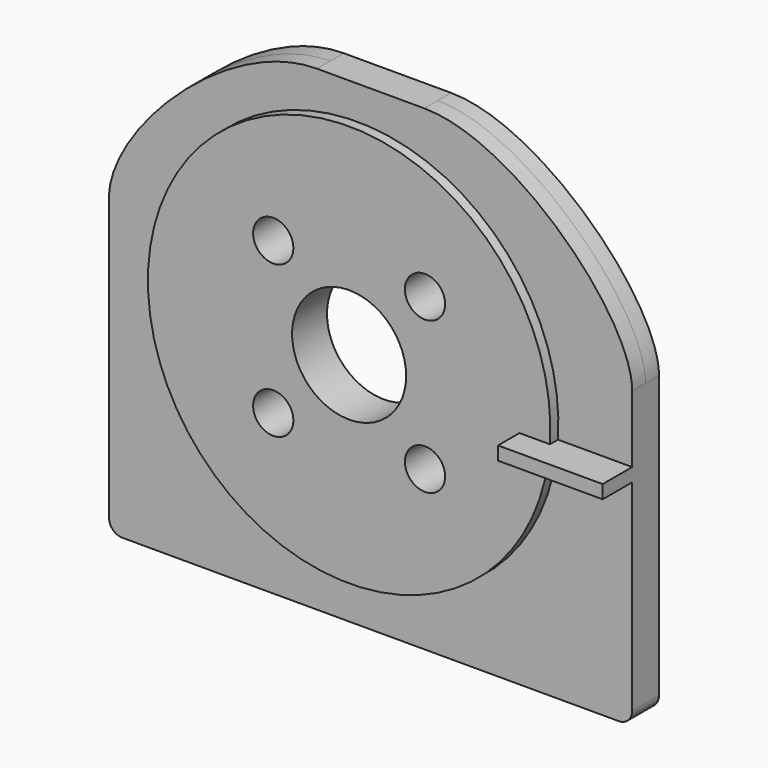
from build123d import *

# Parameters (mm, degrees)
F0_R          = 1.5
F0_R_2        = 4.25
F1_DEPTH      = 1.25
F2_R          = 15
F2_R_2        = 1.5
F2_R_3        = 4.25
F3_DEPTH      = 2
F5_DEPTH      = 2
F5_DEPTH_BACK = 0.75
F6_R          = 1


with BuildPart() as f1:
    # F0 (on Front) → F1 (new body, symmetric)
    with BuildSketch(Plane.XZ):
        with BuildLine():
            Line((4, 17.75), (0, 17.75))
            Line((0, 17.75), (-4, 17.75))
            add(Edge.make_bspline(
                [(-4, 17.75), (-10.6686704129, 17.75), (-19.5, 9.0568709765), (-19.5, 4.25)],
                knots=[0, 0, 0, 0, 20.5548047911, 20.5548047911, 20.5548047911, 20.5548047911], degree=3))
            Line((-19.5, 4.25), (-19.5, -17.75))
            Line((-19.5, -17.75), (19.5, -17.75))
            Line((19.5, -17.75), (19.5, 4.25))
            add(Edge.make_bspline(
                [(4, 17.75), (10.6686704129, 17.75), (19.5, 9.0568709765), (19.5, 4.25)],
                knots=[0, 0, 0, 0, 20.5548047911, 20.5548047911, 20.5548047911, 20.5548047911], degree=3))
        make_face()
        with Locations((-6.6568542495, -5.4068542495)):
            Circle(F0_R, mode=Mode.SUBTRACT)
        with Locations((4.6568542495, -5.4068542495)):
            Circle(F0_R, mode=Mode.SUBTRACT)
        with Locations((-1, 0.25)):
            Circle(F0_R_2, mode=Mode.SUBTRACT)
        with Locations((-6.6568542495, 5.9068542495)):
            Circle(F0_R, mode=Mode.SUBTRACT)
        with Locations((4.6568542495, 5.9068542495)):
            Circle(F0_R, mode=Mode.SUBTRACT)
    extrude(amount=F1_DEPTH, both=True)

    # F2 (on Front) → F3 (join)
    with BuildSketch(Plane.XZ):
        with Locations((-1, 0.25)):
            Circle(F2_R)
        with Locations((-6.6568542495, -5.4068542495)):
            Circle(F2_R_2, mode=Mode.SUBTRACT)
        with Locations((4.6568542495, -5.4068542495)):
            Circle(F2_R_2, mode=Mode.SUBTRACT)
        with Locations((-6.6568542495, 5.9068542495)):
            Circle(F2_R_2, mode=Mode.SUBTRACT)
        with Locations((-1, 0.25)):
            Circle(F2_R_3, mode=Mode.SUBTRACT)
        with Locations((4.6568542495, 5.9068542495)):
            Circle(F2_R_2, mode=Mode.SUBTRACT)
    extrude(amount=F3_DEPTH)

    # F4 (on face) → F5 (join, two sides)
    with BuildSketch(Plane.XZ.offset(2)) as f5_sk:
        Polygon((19.5, -1.75), (19.5, -1.25), (19.5, -0.75), (11.7, -0.75), (11.7, -1.25), (11.7, -1.75), align=None)
    extrude(amount=F5_DEPTH)
    extrude(f5_sk.sketch, amount=-F5_DEPTH_BACK)

    # F6
    f6_edges = [f1.edges().sort_by_distance(p)[0] for p in [
        (19.5, 0, -17.75),
        (-19.5, 0, -17.75),
    ]]
    fillet(f6_edges, radius=F6_R)


solid = f1.part
